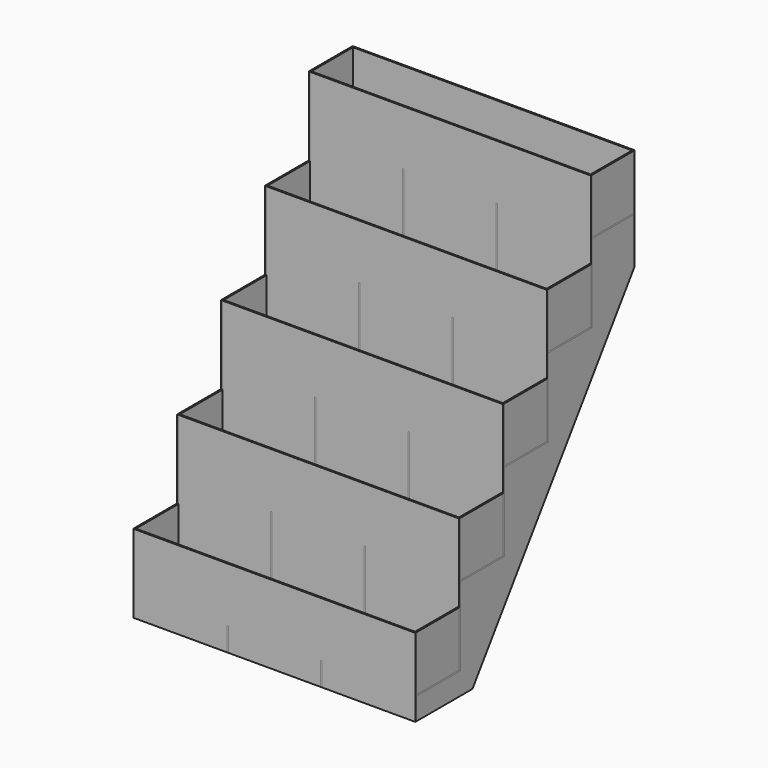
from build123d import *

# Parameters (mm, degrees)
F2_DEPTH  = 4.7
F3_W      = 177.8
F3_H      = 4.7
F4_DEPTH  = 914.4
F6_W      = 4.7
F6_H      = 436.5
F7_DEPTH  = 914.4
F12_W     = 4.7
F12_H     = 254
F13_DEPTH = 914.4
F14_W     = 4.7
F14_H     = 330.8272054958
F15_DEPTH = 914.4
F17_DEPTH = 4.7


with BuildPart() as f2:
    # F1 (on Right) → F2 (new body)
    with BuildSketch(Plane.YZ):
        Polygon((-436.817295532, -403.4125177344), (-436.817295532, -657.4125177344), (-205.4331659253, -657.4125177344), (452.182704468, 281.7602767697), (452.182704468, 612.5874822656), (274.382704468, 612.5874822656), (274.382704468, 358.5874822656), (96.582704468, 358.5874822656), (96.582704468, 104.5874822656), (-81.217295532, 104.5874822656), (-81.217295532, -149.4125177344), (-259.017295532, -149.4125177344), (-259.017295532, -403.4125177344), align=None)
    extrude(amount=F2_DEPTH)


with BuildPart() as f4:
    # F3 (on face) → F4 (new body)
    with BuildSketch(Plane.YZ.offset(4.7)):
        with Locations((363.282704468, 432.4374822656)):
            Rectangle(F3_W, F3_H)
    extrude(amount=-F4_DEPTH)


with BuildPart() as f5_1:
    # F5: copy of F4
    add(f4.part.moved(Location((0, -177.8, -254))))


with BuildPart() as f7:
    # F6 (on face) → F7 (new body)
    with BuildSketch(Plane.YZ.offset(4.7)):
        with Locations((276.732704468, 394.3374822656)):
            Rectangle(F6_W, F6_H)
    extrude(amount=-F7_DEPTH)


with BuildPart() as f8_1:
    # F8: copy of F5_1
    add(f5_1.part.moved(Location((0, -177.8, -254))))


with BuildPart() as f8_2:
    # F8: copy of F7
    add(f7.part.moved(Location((0, -177.8, -254))))


with BuildPart() as f9_1:
    # F9: copy of F8_1
    add(f8_1.part.moved(Location((0, -177.8, -254))))


with BuildPart() as f9_2:
    # F9: copy of F8_2
    add(f8_2.part.moved(Location((0, -177.8, -254))))


with BuildPart() as f10_1:
    # F10: copy of F9_1
    add(f9_1.part.moved(Location((0, -177.8, -254))))


with BuildPart() as f10_2:
    # F10: copy of F9_2
    add(f9_2.part.moved(Location((0, -177.8, -254))))


with BuildPart() as f11_1:
    # F11: copy of F2
    add(f2.part.moved(Location((-909.7, 0, 0))))


with BuildPart() as f13:
    # F12 (on face) → F13 (new body)
    with BuildSketch(Plane.YZ.offset(4.7)):
        with Locations((-434.467295532, -530.4125177344)):
            Rectangle(F12_W, F12_H)
    extrude(amount=-F13_DEPTH)


with BuildPart() as f15:
    # F14 (on face) → F15 (new body)
    with BuildSketch(Plane.YZ.offset(4.7)):
        with Locations((449.832704468, 447.1738795177)):
            Rectangle(F14_W, F14_H)
    extrude(amount=-F15_DEPTH)


with BuildPart() as f17:
    # F16 (on face) → F17 (new body)
    with BuildSketch(Plane.YZ.offset(4.7)):
        Polygon((-436.817295532, -581.2125289917), (-436.817295532, -657.4125289917), (-205.4331659253, -657.4125289917), (452.182704468, 281.7602655125), (452.182704468, 434.7874710083), (274.382704468, 434.7874710083), (274.382704468, 358.5874822656), (274.382704468, 180.7874710083), (96.582704468, 180.7874710083), (96.582704468, 104.5874822656), (96.582704468, -73.2125289917), (-81.217295532, -73.2125289917), (-81.217295532, -149.4125177344), (-81.217295532, -327.2125289917), (-259.017295532, -327.2125289917), (-259.017295532, -403.4125177344), (-259.017295532, -581.2125289917), align=None)
    extrude(amount=-F17_DEPTH)


with BuildPart() as f17_1:
    # F18: moved
    add(f17.part.moved(Location((-303.23349, 0, 0))))


with BuildPart() as f19_1:
    # F19: copy of F17
    add(f17_1.part.moved(Location((-303.23349, 0, 0))))


solid = Compound([f2.part, f4.part, f5_1.part, f7.part, f8_1.part, f8_2.part, f9_1.part, f9_2.part, f10_1.part, f10_2.part, f11_1.part, f13.part, f15.part, f17_1.part, f19_1.part])
